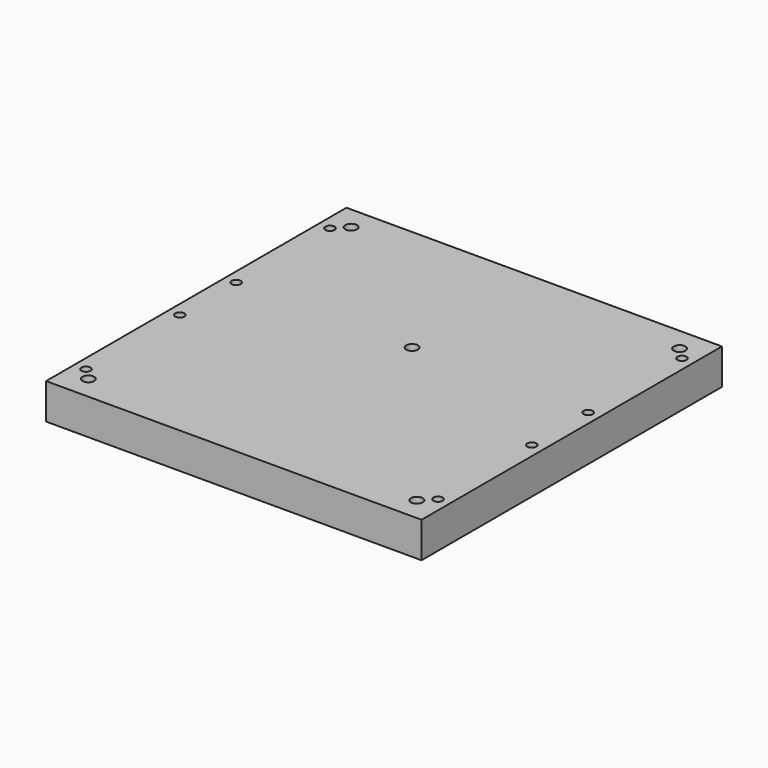
from build123d import *

# Parameters (mm, degrees)
F0_W     = 203.2
F0_H     = 203.2
F0_R     = 3.175
F1_DEPTH = 19.304
F3_D     = 4.9
F3_DEPTH = 10.16
F3_TIP   = 1.4721085166


with BuildPart() as f1:
    # F0 (on Top) → F1 (new body)
    with BuildSketch(Plane.XY):
        Rectangle(F0_W, F0_H)
        with Locations((-88.9, -88.9)):
            Circle(F0_R, mode=Mode.SUBTRACT)
        with Locations((88.9, -88.9)):
            Circle(F0_R, mode=Mode.SUBTRACT)
        with Locations((0, 19.05)):
            Circle(F0_R, mode=Mode.SUBTRACT)
        with Locations((-88.9, 88.9)):
            Circle(F0_R, mode=Mode.SUBTRACT)
        with Locations((88.9, 88.9)):
            Circle(F0_R, mode=Mode.SUBTRACT)
    extrude(amount=F1_DEPTH)

    # F3
    with Locations(Plane.XY.offset(19.304)):
        with Locations((-95.25, -82.55), (-95.25, -19.05), (-95.25, 19.05), (-95.25, 82.55), (95.25, 82.55), (95.25, 19.05), (95.25, -19.05), (95.25, -82.55)):
            Hole(F3_D / 2, depth=F3_DEPTH)
            with Locations((0, 0, -(F3_DEPTH + F3_TIP / 2))):  # 118° drill point
                Cone(0, F3_D / 2, F3_TIP, mode=Mode.SUBTRACT)


solid = f1.part
